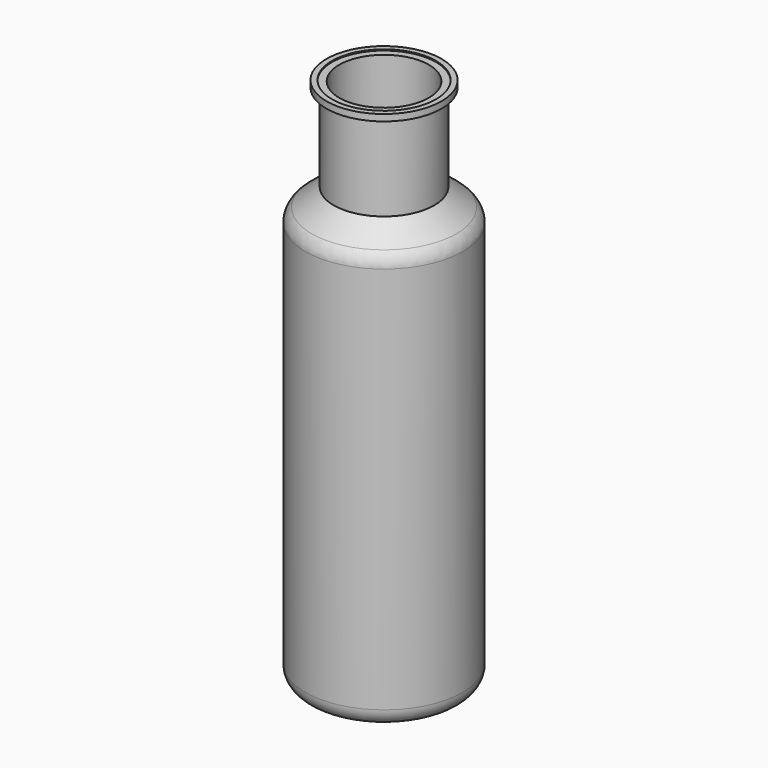
from build123d import *

# Parameters (mm, degrees)
F2_T = -2.5
F3_R = 8


with BuildPart() as f1:
    # F0 (on Front) → F1 (revolve)
    with BuildSketch(Plane.XZ):
        Polygon((0, 243), (0, 0), (36, 0), (36, 189.3837451935), (23, 200), (23, 240), (26.3027578132, 240), (26.3027578132, 243), align=None)
    revolve(axis=Axis((0, 0, 121.5), (0, 0, 1)))

    # F2
    f2_openings = [f1.faces().sort_by_distance(p)[0] for p in [
        (0, 0, 243),
    ]]
    offset(amount=F2_T, openings=f2_openings, kind=Kind.INTERSECTION)

    # F3
    f3_edges = [f1.edges().sort_by_distance(p)[0] for p in [
        (-36, 0, 0),
        (-36, 0, 189.383745),
    ]]
    fillet(f3_edges, radius=F3_R)


solid = f1.part
